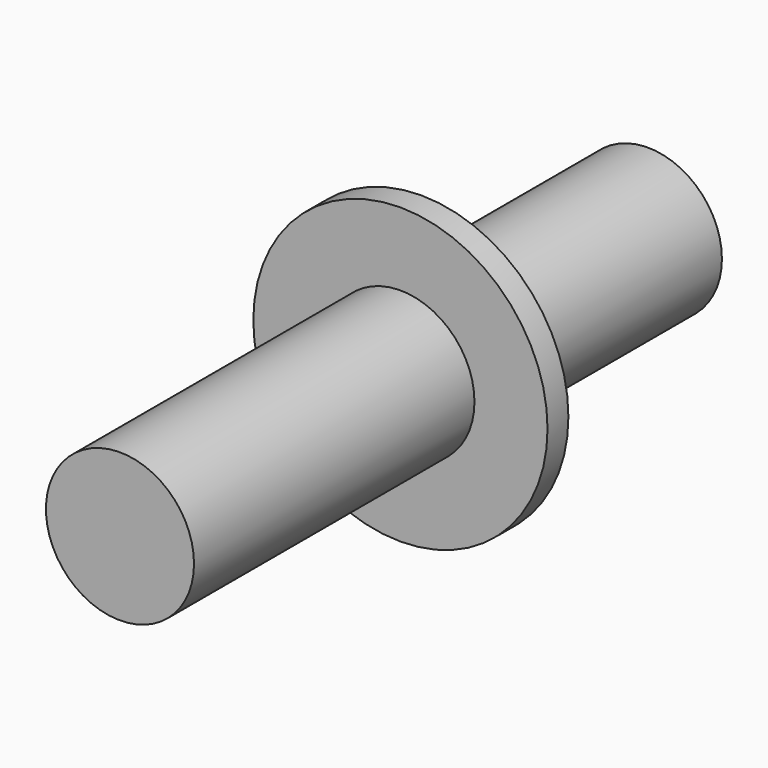
from build123d import *

# Parameters (mm, degrees)
F0_R          = 31.005161
F1_DEPTH      = 157.734
F1_DEPTH_BACK = 118.618
F0_R_2        = 61.609065
F2_DEPTH      = 10.922


with BuildPart() as f1:
    # F0 (on Front) → F1 (new body, two sides)
    with BuildSketch(Plane.XZ) as f1_sk:
        Circle(F0_R)
    extrude(amount=F1_DEPTH)
    extrude(f1_sk.sketch, amount=-F1_DEPTH_BACK)

    # F0 (on Front) → F2 (join)
    with BuildSketch(Plane.XZ):
        Circle(F0_R_2)
        Circle(F0_R, mode=Mode.SUBTRACT)
    extrude(amount=F2_DEPTH)


solid = f1.part
